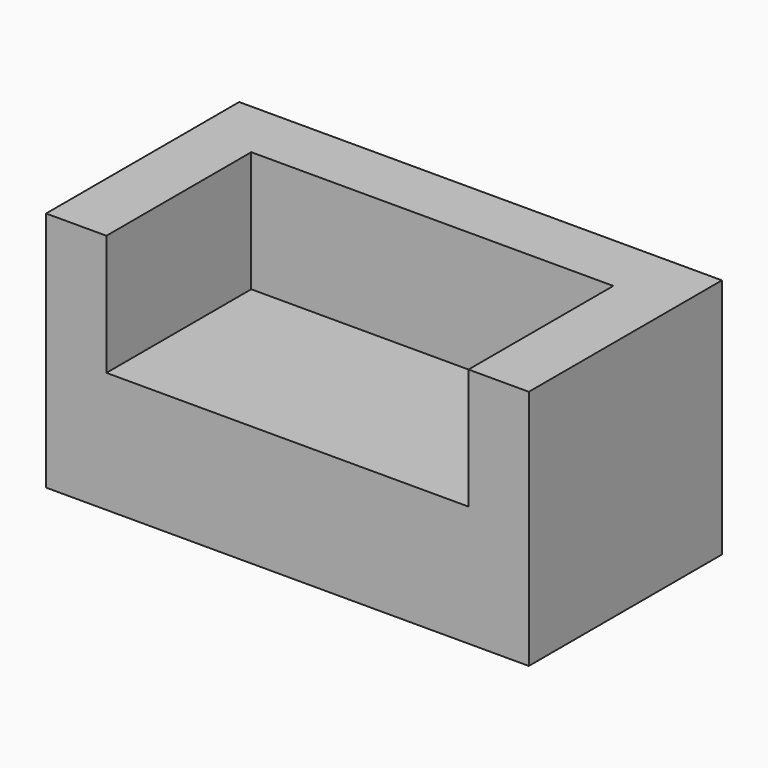
from build123d import *

# Parameters (mm, degrees)
F0_W     = 203.2
F0_H     = 50.8
F1_DEPTH = 101.6
F2_W     = 203.2
F2_H     = 25.4
F3_DEPTH = 50.8
F4_W     = 25.4
F4_H     = 76.2
F5_DEPTH = 50.8
F6_W     = 25.4
F6_H     = 76.2
F7_DEPTH = 50.8


with BuildPart() as f1:
    # F0 (on Front) → F1 (new body)
    with BuildSketch(Plane.XZ):
        with Locations((101.6, 25.4)):
            Rectangle(F0_W, F0_H)
    extrude(amount=F1_DEPTH)

    # F2 (on face) → F3 (join)
    with BuildSketch(Plane.XY.offset(50.8)):
        with Locations((101.6, -12.7)):
            Rectangle(F2_W, F2_H)
    extrude(amount=F3_DEPTH)

    # F4 (on face) → F5 (join)
    with BuildSketch(Plane.XY.offset(50.8)):
        with Locations((12.7, -63.5)):
            Rectangle(F4_W, F4_H)
    extrude(amount=F5_DEPTH)

    # F6 (on face) → F7 (join)
    with BuildSketch(Plane.XY.offset(50.8)):
        with Locations((190.5, -63.5)):
            Rectangle(F6_W, F6_H)
    extrude(amount=F7_DEPTH)


solid = f1.part
